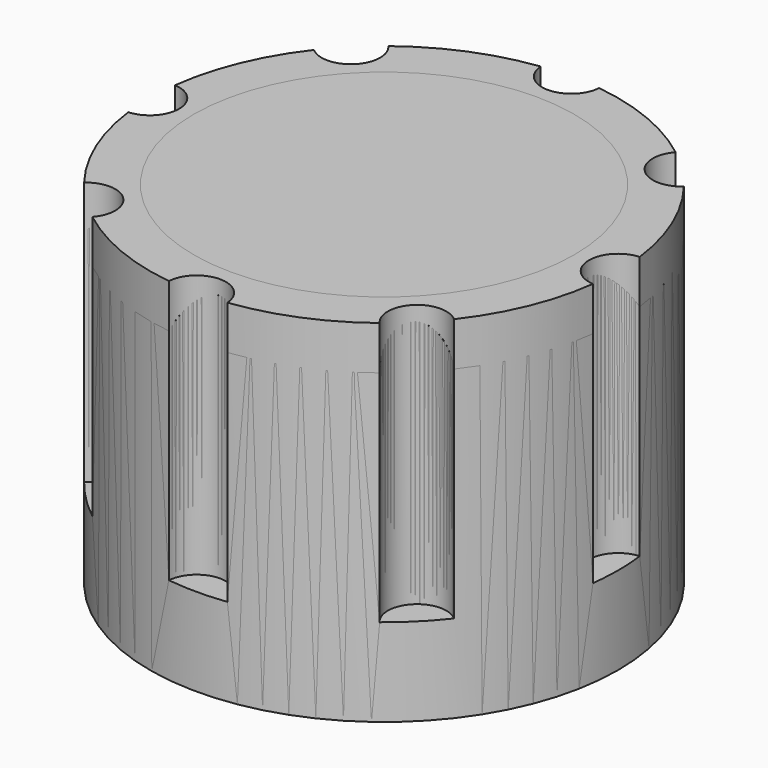
from build123d import *

# Parameters (mm, degrees)
CYLINDER001_R     = 2
CYLINDER001_DEPTH = 21
ARRAY_COUNT       = 8
CYLINDER_R        = 16
CYLINDER_DEPTH    = 24
CHAMFER_SIZE      = 3


with BuildPart() as array:
    # Cylinder001 → Cylinder001 (new body)
    with BuildSketch(Plane(origin=(16, 0, 6), x_dir=(1, 0, 0), z_dir=(0, 0, 1))):
        Circle(CYLINDER001_R)
    extrude(amount=CYLINDER001_DEPTH)

    # Array: Array ×8 about axis
    array_axis = Axis((0, 0, 1), (0, 0, 1))


with BuildPart() as array_1:
    add(array.part)
    for i in range(1, ARRAY_COUNT):
        add(array.part.rotate(array_axis, i * 360 / ARRAY_COUNT))


with BuildPart() as cilindre:
    # Cylinder → Cylinder (new body)
    with BuildSketch(Plane.XY):
        Circle(CYLINDER_R)
    extrude(amount=CYLINDER_DEPTH)


with BuildPart() as cut:
    # Cut base: copy of Cilindre
    add(cilindre.part)

    # Cut: cut Array
    add(array_1.part, mode=Mode.SUBTRACT)


with BuildPart() as cut001:
    # Chamfer base: copy of Cilindre
    add(cilindre.part)

    # Chamfer
    chamfer_edges = [cut001.edges().sort_by_distance(p)[0] for p in [
        (-16, 0, 24),
    ]]
    chamfer(chamfer_edges, length=CHAMFER_SIZE)

    # Cut001: cut Array
    add(array_1.part, mode=Mode.SUBTRACT)


solid = Compound([cut.part, cut001.part])
